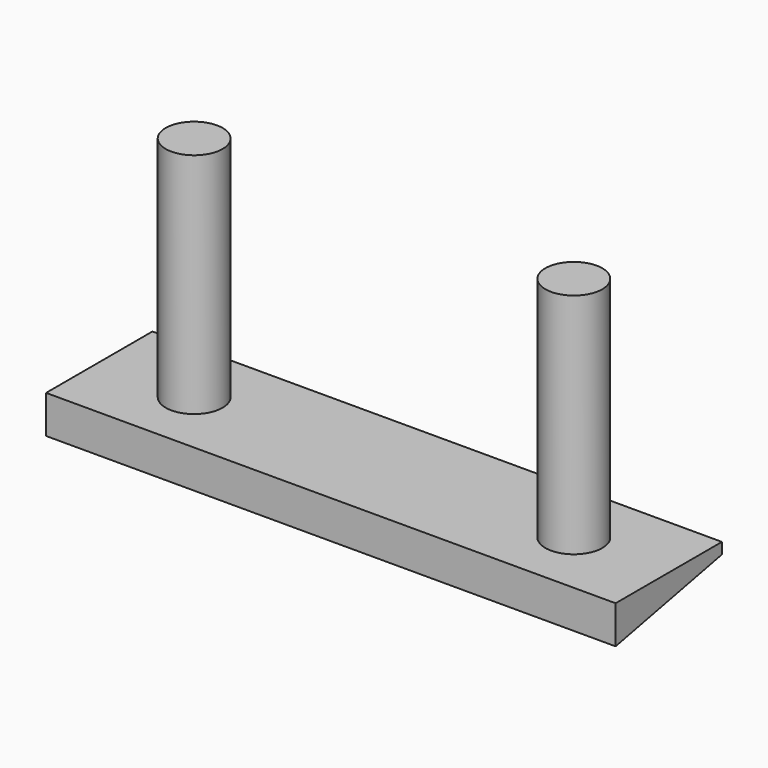
from build123d import *

# Parameters (mm, degrees)
F0_W     = 38.1
F0_H     = 8.89
F1_DEPTH = 2.54
F2_R     = 1.905
F3_DEPTH = 15.24
F5_DEPTH = 38.1


with BuildPart() as f1:
    # F0 (on Top) → F1 (new body)
    with BuildSketch(Plane.XY):
        with Locations((19.05, 4.445)):
            Rectangle(F0_W, F0_H)
    extrude(amount=F1_DEPTH)

    # F2 (on face) → F3 (join)
    with BuildSketch(Plane.XY.offset(2.54)):
        with Locations((6.35, 4.445)):
            Circle(F2_R)
        with Locations((31.75, 4.445)):
            Circle(F2_R)
    extrude(amount=F3_DEPTH)

    # F4 (on face) → F5 (cut)
    with BuildSketch(Plane.YZ.offset(38.1)):
        Polygon((8.89, 0), (8.89, 1.798025), (0, 0), align=None)
    extrude(amount=-F5_DEPTH, mode=Mode.SUBTRACT)


solid = f1.part
